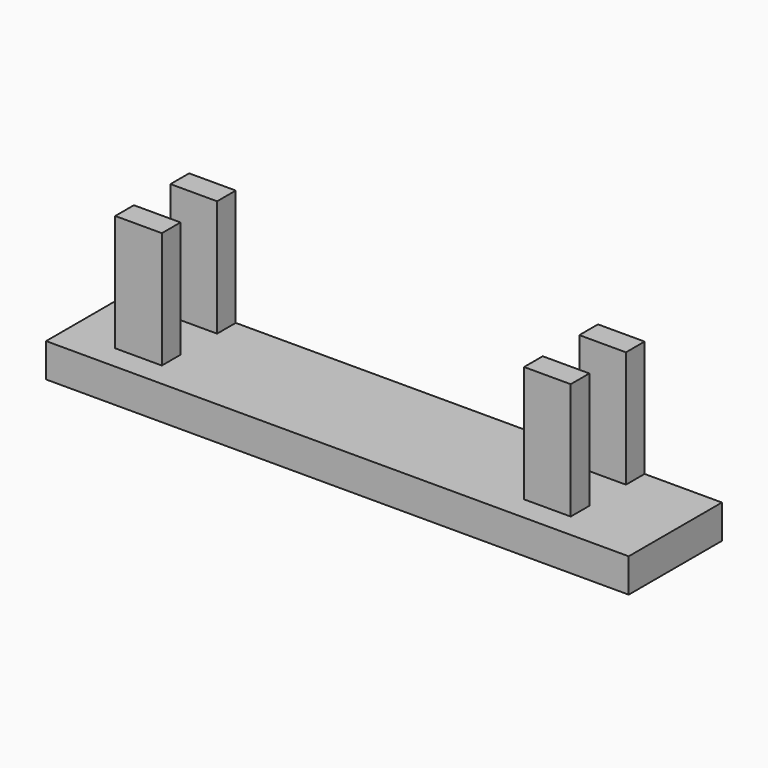
from build123d import *

# Parameters (mm, degrees)
F0_W     = 127
F0_H     = 25.4
F1_DEPTH = 7.366
F2_W     = 10.16
F2_H     = 5.08
F3_DEPTH = 25.4


with BuildPart() as f1:
    # F0 (on Top) → F1 (new body)
    with BuildSketch(Plane.XY):
        with Locations((2.998403, -2.634404)):
            Rectangle(F0_W, F0_H)
    extrude(amount=F1_DEPTH)


with BuildPart() as f3:
    # F2 (on face) → F3 (new body)
    with BuildSketch(Plane.XY.offset(7.366)):
        with Locations((-44.560708, 7.525596)):
            Rectangle(F2_W, F2_H)
    extrude(amount=F3_DEPTH)


with BuildPart() as f4_1:
    # F4: instance of F3
    add(f3.part.mirror(Plane.YZ))


with BuildPart() as f5_1:
    # F5: instance of F3
    add(f3.part.mirror(Plane.XZ))


with BuildPart() as f5_2:
    # F5: instance of F4_1
    add(f4_1.part.mirror(Plane.XZ))


solid = Compound([f1.part, f3.part, f4_1.part, f5_1.part, f5_2.part])
